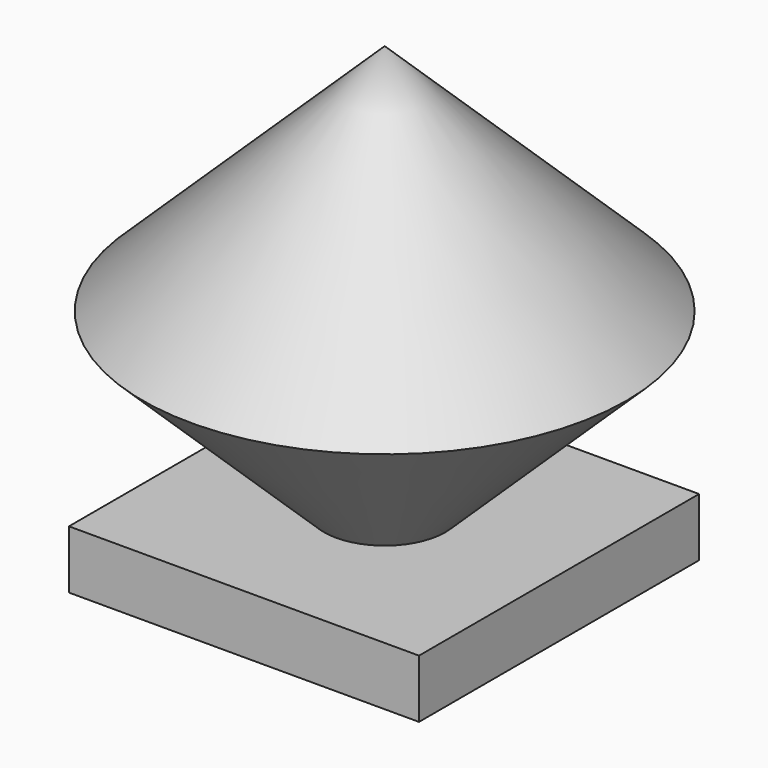
from build123d import *

# Parameters (mm, degrees)
F3_DEPTH      = 19.05
F3_DEPTH_BACK = 19.05


with BuildPart() as f1:
    # F0 (on Front) → F1 (revolve)
    with BuildSketch(Plane.XZ):
        Polygon((26.343262, 0), (0, 25.4), (0, -25.4), align=None)
    revolve(axis=Axis((0, 0, 0), (0, 0, -1)))

    # F2 (on Right) → F3 (join, two sides)
    with BuildSketch(Plane.YZ) as f3_sk:
        Polygon((-19.143354, -25.375442), (-0.093354, -25.375442), (18.956646, -25.375442), (18.956646, -19.025442), (-0.093354, -19.025442), (-19.143354, -19.025442), align=None)
    extrude(amount=F3_DEPTH)
    extrude(f3_sk.sketch, amount=-F3_DEPTH_BACK)


solid = f1.part
